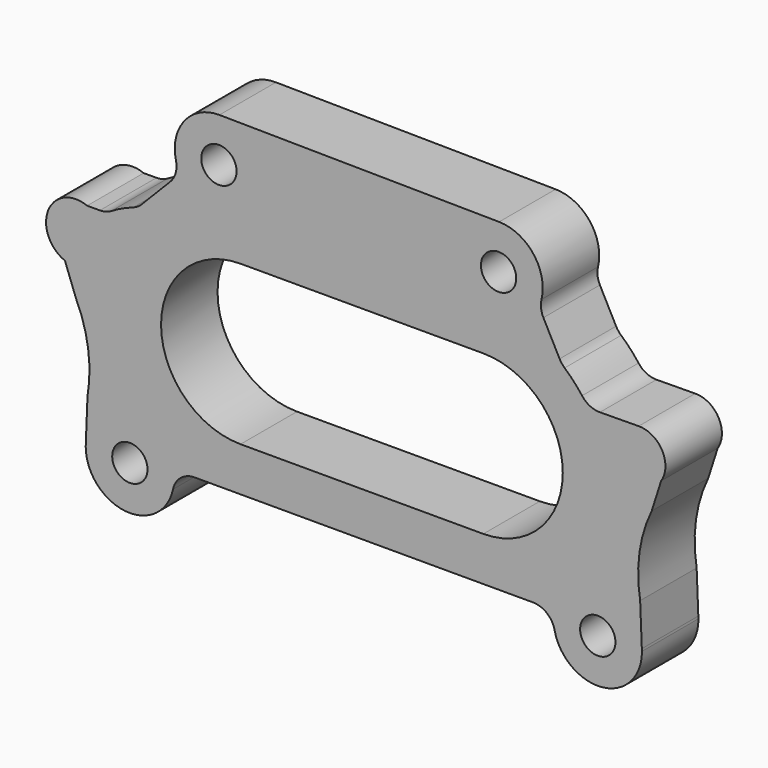
from build123d import *

# Parameters (mm, degrees)
F1_DEPTH = 16
F2_D     = 8


with BuildPart() as f1:
    # F0 (on Front) → F1 (new body)
    with BuildSketch(Plane.XZ):
        with BuildLine():
            Line((-34.6662172288, -19.7492731154), (-35.0371696448, -29.0820410001))
            Line((-35.0371696448, -29.0820410001), (-35.0687167778, -29.8757332816))
            ThreePointArc((-35.0687167778, -29.8757332816), (-26.1158964536, -39.8207528757), (-15.2880338325, -31.9585777605))
            ThreePointArc((-15.2880338325, -31.9585777605), (-13.5435538319, -29.1136706781), (-10.3976923598, -28))
            Line((-10.3976923598, -28), (27.5, -28))
            Line((27.5, -28), (66.2602588043, -28))
            ThreePointArc((66.2602588043, -28), (69.4061202763, -29.1136706781), (71.1506002769, -31.9585777605))
            ThreePointArc((71.1506002769, -31.9585777605), (82.0453345687, -39.8134840129), (90.9303783011, -29.7412059492))
            Line((90.9303783011, -29.7412059492), (90.9089219451, -29.2073580015))
            Line((90.9089219451, -29.2073580015), (90.5287836732, -19.7492731154))
            ThreePointArc((90.5287836732, -19.7492731154), (90.3735319415, -10.1758034804), (93.147096282, -1.0115923959))
            Line((93.147096282, -1.0115923959), (95.278469332, 5.6560345374))
            ThreePointArc((95.278469332, 5.6560345374), (95.5161813728, 11.819450524), (90.1933378417, 14.9357849705))
            Line((90.1933378417, 14.9357849705), (81.4161891549, 14.8464442463))
            ThreePointArc((81.4161891549, 14.8464442463), (79.1559436107, 15.3607918631), (77.3705557582, 16.8391874825))
            ThreePointArc((77.3705557582, 16.8391874825), (75.5074057352, 19.0642678855), (73.4239499151, 21.084545751))
            ThreePointArc((73.4239499151, 21.084545751), (72.7864222514, 21.7553586843), (72.2834406198, 22.5321733286))
            Line((72.2834406198, 22.5321733286), (68.6120607815, 29.5510562145))
            ThreePointArc((68.6120607815, 29.5510562145), (68.0801346369, 31.2567064537), (68.1818484569, 33.0404784292))
            ThreePointArc((68.1818484569, 33.0404784292), (66.351866653, 41.5264608231), (58.5748353368, 45.3837285735))
            Line((58.5748353368, 45.3837285735), (-4.7806569197, 46.1086403504))
            ThreePointArc((-4.7806569197, 46.1086403504), (-12.7004054077, 42.360432851), (-14.6278820787, 33.813134491))
            ThreePointArc((-14.6278820787, 33.813134491), (-14.6773480259, 31.3245006562), (-15.9205954248, 29.168095975))
            Line((-15.9205954248, 29.168095975), (-22.4176771662, 22.5284468379))
            ThreePointArc((-22.4176771662, 22.5284468379), (-23.2975488941, 21.8131223673), (-24.3159760704, 21.3144547002))
            ThreePointArc((-24.3159760704, 21.3144547002), (-26.857680899, 20.2673049491), (-29.284454025, 18.9759652448))
            ThreePointArc((-29.284454025, 18.9759652448), (-30.5179442619, 18.4492237754), (-31.8470764444, 18.2693283014))
            Line((-31.8470764444, 18.2693283014), (-34.7455926018, 18.2693283014))
            ThreePointArc((-34.7455926018, 18.2693283014), (-43.5642704506, 14.4747123862), (-39.7696545355, 5.6560345374))
            Line((-39.7696545355, 5.6560345374), (-37.2845298375, -1.0115923959))
            ThreePointArc((-37.2845298375, -1.0115923959), (-34.510965497, -10.1758034804), (-34.6662172288, -19.7492731154))
        make_face()
        with BuildLine():
            ThreePointArc((0, -18), (-18, 0), (0, 18))
            Line((0, 18), (55, 18))
            ThreePointArc((55, 18), (73, 0), (55, -18))
            Line((55, -18), (0, -18))
        make_face(mode=Mode.SUBTRACT)
    extrude(amount=F1_DEPTH)

    # F2 (through all)
    with Locations(Plane(origin=(0, 0, 0), x_dir=(1, 0, 0), z_dir=(0, 1, 0))):
        with Locations((58.4604231045, -35.3843831029), (-4.8950691519, -36.1092948798), (-25.0687167778, 29.8757332816), (80.9312832222, 29.8757332816)):
            Hole(F2_D / 2)


solid = f1.part
